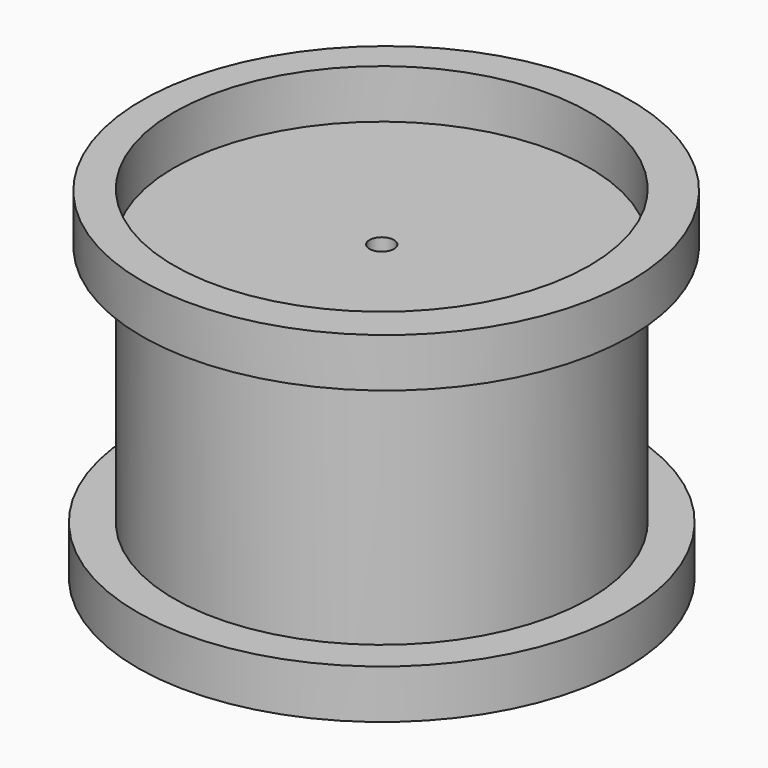
from build123d import *

# Parameters (mm, degrees)
F0_R     = 10
F0_R_2   = 0.5
F1_DEPTH = 2
F2_R     = 8.5
F2_R_2   = 0.5
F3_DEPTH = 10
F4_R     = 10
F4_R_2   = 8.5
F5_DEPTH = 2


with BuildPart() as f1:
    # F0 (on Top) → F1 (new body)
    with BuildSketch(Plane.XY):
        Circle(F0_R)
        Circle(F0_R_2, mode=Mode.SUBTRACT)
    extrude(amount=-F1_DEPTH)

    # F2 (on face) → F3 (join)
    with BuildSketch(Plane.XY):
        Circle(F2_R)
        Circle(F2_R_2, mode=Mode.SUBTRACT)
    extrude(amount=F3_DEPTH)


with BuildPart() as f5:
    # F4 (on face) → F5 (new body)
    with BuildSketch(Plane.XY.offset(10)):
        with Locations((0.182103, 0)):
            Circle(F4_R)
        Circle(F4_R_2, mode=Mode.SUBTRACT)
    extrude(amount=F5_DEPTH)


solid = Compound([f1.part, f5.part])
